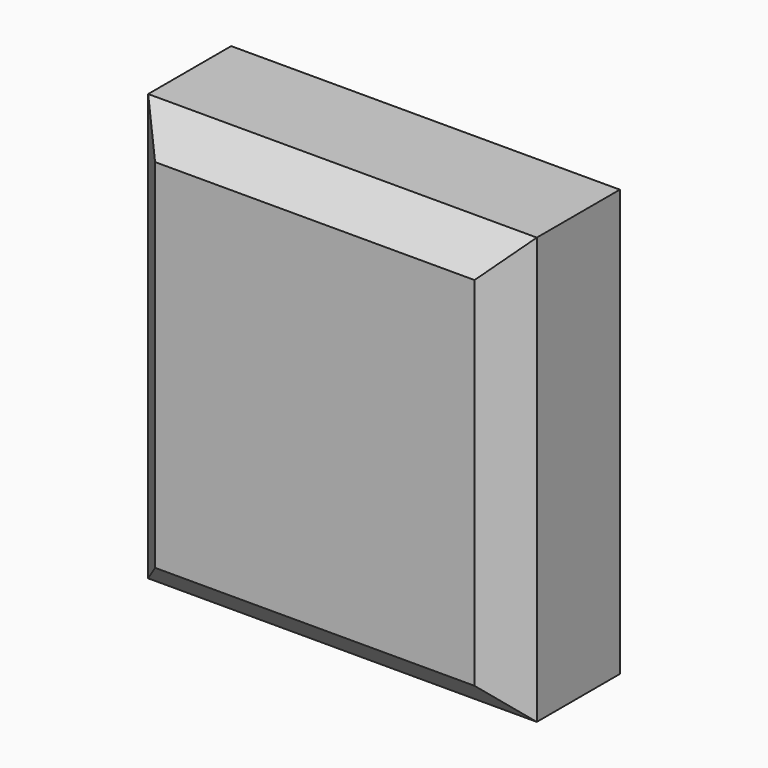
from build123d import *

# Parameters (mm, degrees)
F0_W     = 57.070940733
F0_H     = 62.6132022589
F1_DEPTH = 25.4
F0_W_2   = 13.6159174144
F0_H_2   = 7.0780348033
F3_SIZE  = 5.08


with BuildPart() as f1:
    # F0 (on Front) → F1 (new body)
    with BuildSketch(Plane.XZ):
        with Locations((-97.6289659739, 17.8792783991)):
            Rectangle(F0_W, F0_H)
    extrude(amount=F1_DEPTH)

    # F3
    f3_edges = [f1.edges().sort_by_distance(p)[0] for p in [
        (-97.628966, -25.4, 49.18588),
        (-126.164436, -25.4, 17.879278),
        (-97.628966, -25.4, -13.427323),
        (-69.093496, -25.4, 17.879278),
        (-97.628966, 0, 49.18588),
        (-126.164436, 0, 17.879278),
        (-97.628966, 0, -13.427323),
        (-69.093496, 0, 17.879278),
    ]]
    chamfer(f3_edges, length=F3_SIZE)


with BuildPart() as f1b:
    # F0 (on Front) → F1, piece 2 (new body)
    with BuildSketch(Plane.XZ):
        with Locations((-56.7812416703, -20.881687291)):
            Rectangle(F0_W_2, F0_H_2)
    extrude(amount=F1_DEPTH)


solid = f1.part
